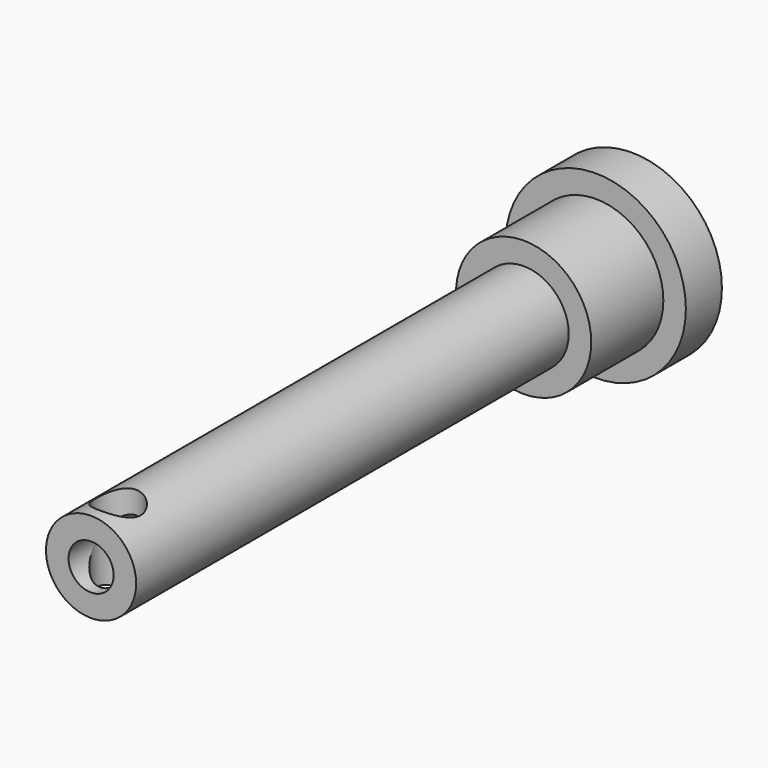
from build123d import *

# Parameters (mm, degrees)
F0_R     = 4
F0_R_2   = 3
F1_DEPTH = 2
F2_START = 1
F0_R_3   = 2
F2_DEPTH = 5
F3_START = 5
F0_R_4   = 1
F3_DEPTH = 25
F5_D     = 2
F5_DEPTH = 4.001
F6_D     = 2


with BuildPart() as f1:
    # F0 (on Front) → F1 (new body)
    with BuildSketch(Plane.XZ):
        Circle(F0_R)
        Circle(F0_R_2, mode=Mode.SUBTRACT)
    extrude(amount=F1_DEPTH)

    # F0 (on Front) → F2 (join)
    with BuildSketch(Plane.XZ.offset(F2_START)):
        Circle(F0_R_2)
        Circle(F0_R_3, mode=Mode.SUBTRACT)
    extrude(amount=F2_DEPTH)

    # F0 (on Front) → F3 (join)
    with BuildSketch(Plane.XZ.offset(F3_START)):
        Circle(F0_R_3)
        Circle(F0_R_4, mode=Mode.SUBTRACT)
    extrude(amount=F3_DEPTH)

    # F5 (through all, one way)
    with BuildSketch(Plane.XY):
        with Locations((0, -28.5)):
            Circle(F5_D / 2)
    extrude(amount=-F5_DEPTH, mode=Mode.SUBTRACT)

    # F6 (through all)
    with Locations(Plane(origin=(0, 0, 0), x_dir=(1, 0, 0), z_dir=(0, 0, -1))):
        with Locations((0, 28.5)):
            Hole(F6_D / 2)


solid = f1.part
